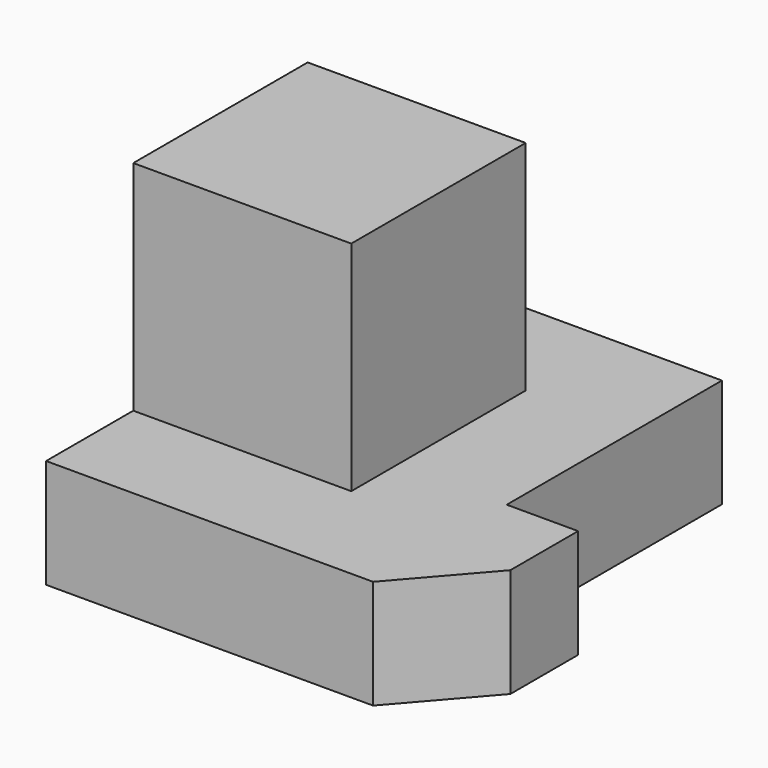
from build123d import *

# Parameters (mm, degrees)
F1_DEPTH = 10
F2_W     = 20
F2_H     = 20
F3_DEPTH = 20


with BuildPart() as f1:
    # F0 (on Top) → F1 (new body)
    with BuildSketch(Plane.XY):
        Polygon((0, 40), (0, 0), (30, 0), (36.556437, 7.550704), (36.556437, 15.321073), (30.006772, 15.321073), (30.006772, 40), align=None)
    extrude(amount=F1_DEPTH)

    # F2 (on face) → F3 (join)
    with BuildSketch(Plane.XY.offset(10)):
        with Locations((10, 20)):
            Rectangle(F2_W, F2_H)
    extrude(amount=F3_DEPTH)


solid = f1.part
